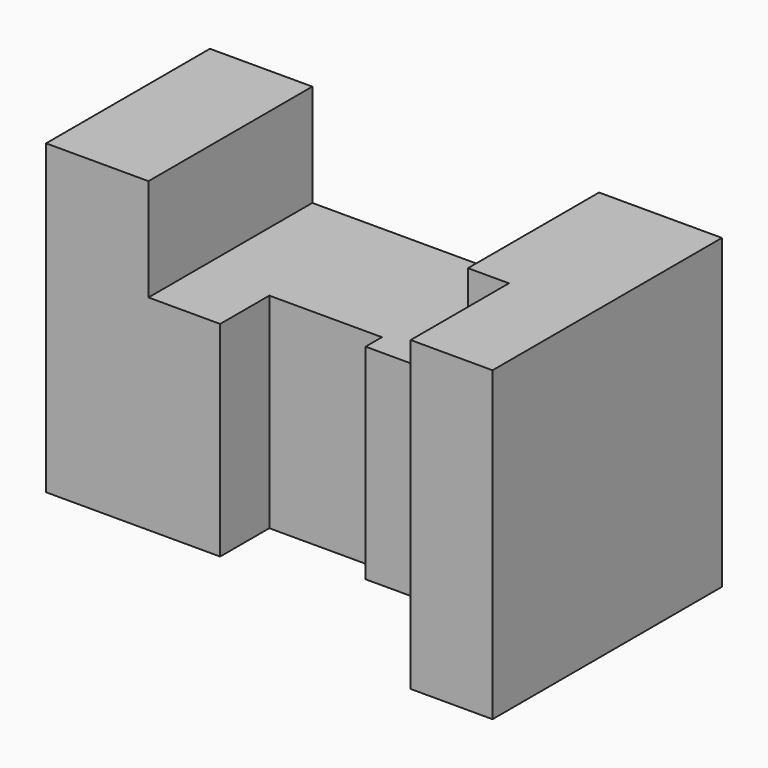
from build123d import *

# Parameters (mm, degrees)
F0_W     = 17.5
F0_H     = 50
F1_DEPTH = 25
F2_W     = 35
F2_H     = 50
F3_DEPTH = 27.5
F4_W     = 40
F4_H     = 50
F5_DEPTH = 25
F6_W     = 40
F6_H     = 75
F7_DEPTH = 30
F8_W     = 20
F8_H     = 75
F9_DEPTH = 30


with BuildPart() as f1:
    # F0 (on Front) → F1 (new body, symmetric)
    with BuildSketch(Plane.XZ):
        Polygon((0, 75), (0, 0), (25, 0), (25, 50), (25, 75), align=None)
        with Locations((33.75, 25)):
            Rectangle(F0_W, F0_H)
    extrude(amount=F1_DEPTH, both=True)

    # F2 (on face) → F3 (join)
    with BuildSketch(Plane.YZ.offset(42.5)):
        with Locations((7.5, 25)):
            Rectangle(F2_W, F2_H)
    extrude(amount=F3_DEPTH)

    # F4 (on face) → F5 (join)
    with BuildSketch(Plane.YZ.offset(70)):
        with Locations((5, 25)):
            Rectangle(F4_W, F4_H)
    extrude(amount=F5_DEPTH)

    # F6 (on face) → F7 (join)
    with BuildSketch(Plane.YZ.offset(95)):
        with Locations((5, 37.5)):
            Rectangle(F6_W, F6_H)
    extrude(amount=F7_DEPTH)

    # F8 (on face) → F9 (join)
    with BuildSketch(Plane.XZ.offset(15)):
        with Locations((115, 37.5)):
            Rectangle(F8_W, F8_H)
    extrude(amount=F9_DEPTH)


solid = f1.part
